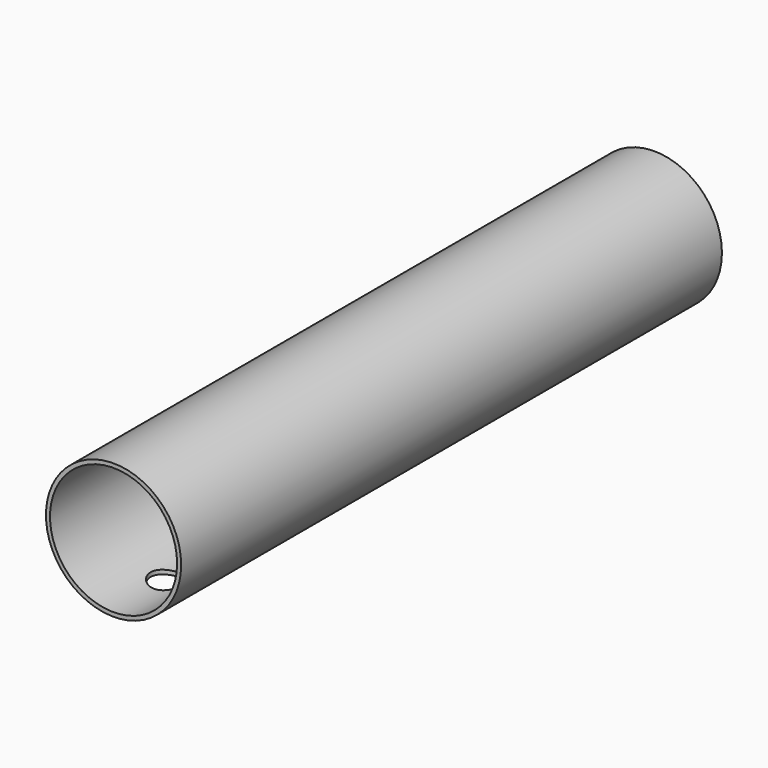
from build123d import *

# Parameters (mm, degrees)
F0_R     = 50
F0_R_2   = 47
F1_DEPTH = 500
F2_R     = 12.5
F3_DEPTH = 80


with BuildPart() as f1:
    # F0 (on Front) → F1 (new body)
    with BuildSketch(Plane.XZ):
        Circle(F0_R)
        Circle(F0_R_2, mode=Mode.SUBTRACT)
    extrude(amount=F1_DEPTH)

    # F2 (on Top) → F3 (cut)
    with BuildSketch(Plane.XY):
        with Locations((0, -350)):
            Circle(F2_R)
        with Locations((0, -300)):
            Circle(F2_R)
        with Locations((0, -250)):
            Circle(F2_R)
        with Locations((0, -150)):
            Circle(F2_R)
        with Locations((0, -200)):
            Circle(F2_R)
        with Locations((0, -400)):
            Circle(F2_R)
        with Locations((0, -100)):
            Circle(F2_R)
        with Locations((0, -50)):
            Circle(F2_R)
        with Locations((0, -450)):
            Circle(F2_R)
    extrude(amount=-F3_DEPTH, mode=Mode.SUBTRACT)


solid = f1.part
